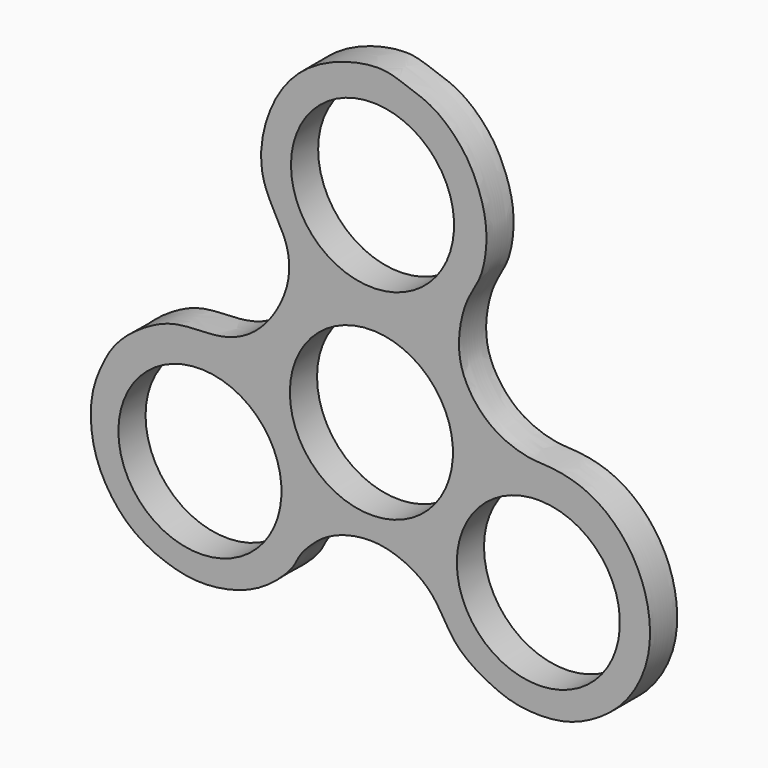
from build123d import *

# Parameters (mm, degrees)
F4_DEPTH = 6.35
F5_D     = 30.48
F7_D     = 30.48
F8_D     = 30.48
F9_D     = 30.48


with BuildPart() as f4:
    # F0 (on Front) → F4 (new body)
    with BuildSketch(Plane.XZ):
        with BuildLine():
            add(Edge.make_bspline(
                [(0, 48.6563742161), (-3.0300005443, 48.6737799362), (-12.3188805876, 46.3733212767), (-20.5809261291, 37.0542839882), (-23.1847472508, 23.3941707693), (-16.4668468609, 15.0895155778), (-16.252812468, 6.6582493126), (-21.4922861877, -1.9809594171), (-28.7483104502, -5.6580024036), (-36.5353798559, -5.2423131762), (-42.0383808362, -7.0148596827), (-48.8764206597, -11.7795177777), (-51.8271470571, -17.3389047082), (-53.8917750517, -22.8235431333), (-53.6086052548, -30.8886736223), (-50.6088819476, -37.4836811153), (-45.7516228526, -43.0101728784), (-39.0138099296, -46.0187676431), (-33.1869707307, -47.1620753843), (-26.1828594547, -46.1896689149), (-20.3018434137, -43.353743014), (-15.5584237727, -38.7162456121), (-14.9028018084, -36.3805118645), (-11.5021482619, -32.7725569562), (-8.1294452167, -30.8004972561), (-4.0841038094, -29.5923665485), (1.6363222463, -29.38226752), (8.4743310454, -32.5345925047), (11.74027827, -36.7407190621), (14.6169705987, -42.310940957), (20.8546448699, -45.9882775551), (25.9561298946, -48.0310930388), (33.3651014679, -48.2579620286), (39.4204325818, -46.2336499368), (46.3386112359, -41.4851009371), (51.214670224, -32.6644525939), (50.8947710836, -22.2786502231), (46.5628043874, -13.4781943747), (39.3207053464, -7.7397737392), (32.0265667398, -6.4350347731), (28.1035717218, -6.5525171709), (21.5121201015, -4.3874496206), (16.615238287, 1.0111667995), (14.4991009357, 7.4238961413), (16.2008782935, 15.9979556873), (19.7300487256, 20.3065166852), (20.8123091874, 29.0061790306), (18.609522508, 35.7832870186), (16.0153947108, 40.6431182971), (10.7765055769, 45.7280965724), (4.7508410441, 47.5922984272), (1.9726337942, 48.6450424981), (0, 48.6563742161)],
                knots=[0, 0, 0, 0, 0.025884766, 0.0525375358, 0.0795574094, 0.1033940249, 0.124579564, 0.1480219488, 0.1692376385, 0.1898919642, 0.2081023165, 0.2295871484, 0.2484223952, 0.2665763122, 0.2877402871, 0.3080662072, 0.3283805549, 0.3486692928, 0.367068203, 0.3868366233, 0.4065722311, 0.425426408, 0.4371896698, 0.4535655553, 0.4686930147, 0.4839326228, 0.5019685568, 0.5223701933, 0.5397170741, 0.5584259825, 0.5784352483, 0.5963149139, 0.6164651885, 0.6355399661, 0.6570980215, 0.680714016, 0.7047020534, 0.7281319887, 0.7509186278, 0.7709587037, 0.7859448054, 0.805345498, 0.8255188184, 0.8450194889, 0.8667351044, 0.8846172951, 0.9064524375, 0.9265901122, 0.9442756102, 0.9644547466, 0.9831481337, 1, 1, 1, 1], degree=3))
        make_face()
    extrude(amount=F4_DEPTH)

    # F5 (through all)
    with Locations(Plane(origin=(0, 0, 0), x_dir=(1, 0, 0), z_dir=(0, 1, 0))):
        with Locations((-33.2619473338, 26.9030481577)):
            Hole(F5_D / 2)

    # F7 (through all)
    with Locations(Plane(origin=(0, 0, 0), x_dir=(1, 0, 0), z_dir=(0, 1, 0))):
        with Locations((-1.0053882143, -27.3736827075)):
            Hole(F7_D / 2)

    # F8 (through all)
    with Locations(Plane.XZ.offset(6.35)):
        with Locations((29.9880728126, -27.9562342912)):
            Hole(F8_D / 2)

    # F9 (through all)
    with Locations(Plane(origin=(0, 0, 0), x_dir=(1, 0, 0), z_dir=(0, 1, 0))):
        with Locations((-1.2131567346, 10.109173134)):
            Hole(F9_D / 2)


solid = f4.part
